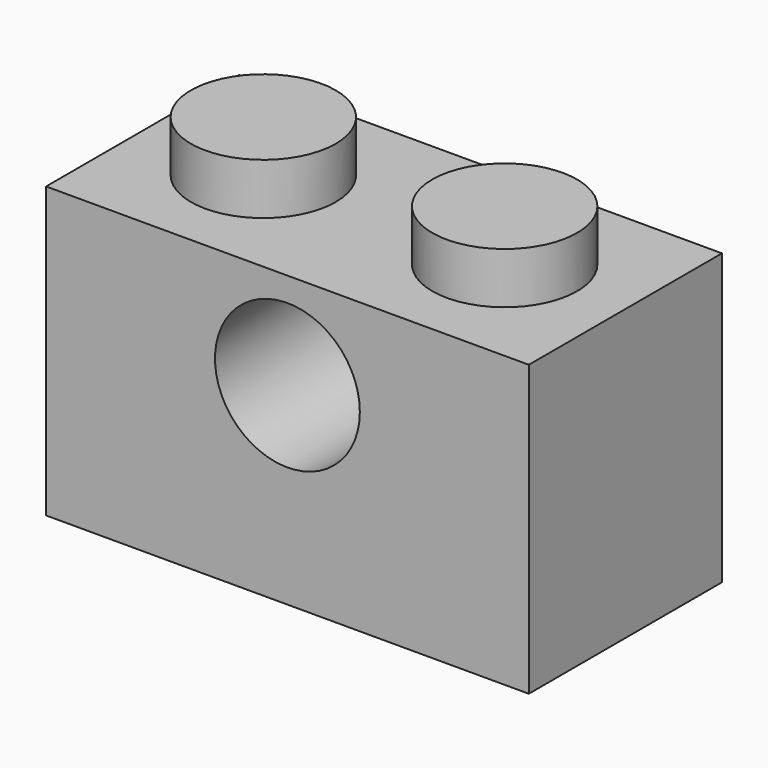
from build123d import *

# Parameters (mm, degrees)
F1_DEPTH  = 8
F3_W      = 8
F3_H      = 8
F3_R      = 2.4
F4_DEPTH  = 1.7
F5_R      = 2.4
F6_DEPTH  = 1.7
F9_R      = 2.4
F10_DEPTH = 25.4


with BuildPart() as f1:
    # F0 (on Front) → F1 (new body)
    with BuildSketch(Plane.XZ):
        Polygon((-2.4, 9.6), (-4, 9.6), (-4, 0), (4, 0), (4, 9.6), (2.4, 9.6), (2.4, 11.3), (-2.4, 11.3), align=None)
    extrude(amount=F1_DEPTH)

    # F3 (on plane+point) → F4 (cut, through all)
    with BuildSketch(Plane.XY.offset(11.3)):
        with Locations((0, -4)):
            Rectangle(F3_W, F3_H)
        with Locations((0, -4)):
            Circle(F3_R, mode=Mode.SUBTRACT)
    extrude(amount=-F4_DEPTH, mode=Mode.SUBTRACT)

    # F5 (on Top) → F6 (cut)
    with BuildSketch(Plane.XY):
        with Locations((0, -4)):
            Circle(F5_R)
    extrude(amount=F6_DEPTH, mode=Mode.SUBTRACT)

    # F8: F1 across plane


with BuildPart() as f1_1:
    add(f1.part)
    add(f1.part.mirror(Plane.YZ.offset(4)))

    # F9 (on Front) → F10 (cut)
    with BuildSketch(Plane.XZ):
        with Locations((3.999, 6.4008)):
            Circle(F9_R)
    extrude(amount=F10_DEPTH, mode=Mode.SUBTRACT)


solid = f1_1.part
